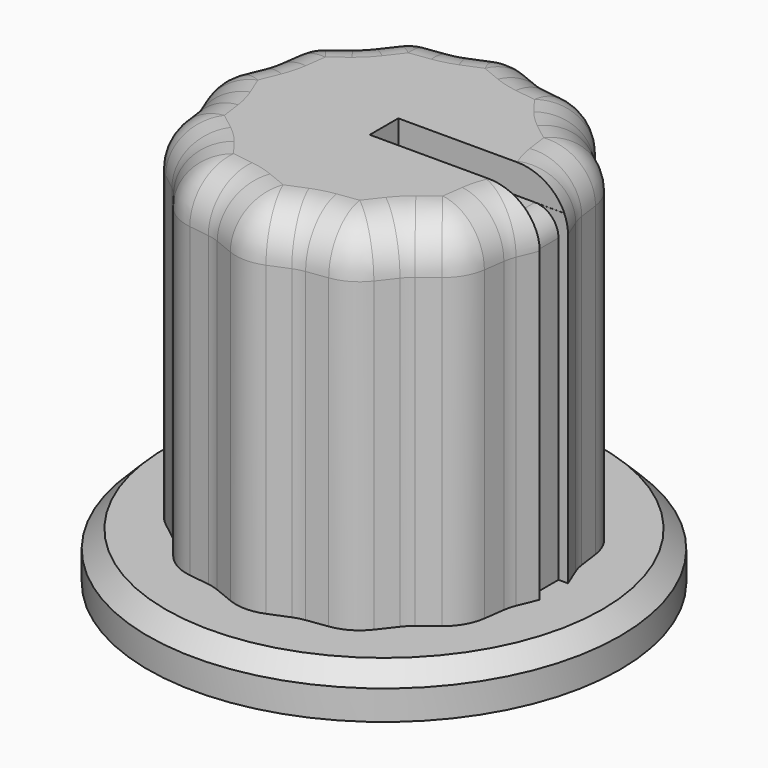
from build123d import *

# Parameters (mm, degrees)
PAD_DEPTH       = 15
SKETCH001_R     = 10
PAD001_DEPTH    = 2
FILLET_R        = 2
POCKET_DEPTH    = 1.25
POCKET001_DEPTH = 1
FILLET001_R     = 1
CHAMFER_SIZE    = 0.75


with BuildPart() as part:
    # Sketch → Pad (new body)
    with BuildSketch(Plane.XY):
        Polygon((7.5, 0), (6.761481, 1.811733), (6.495191, 3.75), (4.949747, 4.949747), (3.75, 6.495191), (1.811733, 6.761481), (0, 7.5), (-1.811733, 6.761481), (-3.75, 6.495191), (-4.949747, 4.949747), (-6.495191, 3.75), (-6.761481, 1.811733), (-7.5, 0), (-6.761481, -1.811733), (-6.495191, -3.75), (-4.949747, -4.949747), (-3.75, -6.495191), (-1.811733, -6.761481), (0, -7.5), (1.811733, -6.761481), (3.75, -6.495191), (4.949747, -4.949747), (6.495191, -3.75), (6.761481, -1.811733), align=None)
    extrude(amount=PAD_DEPTH)

    # Sketch001 (on Face25 of Pad) → Pad001 (join)
    with BuildSketch(Plane(origin=(0, 0, 0), x_dir=(1, 0, 0), z_dir=(0, 0, -1))):
        Circle(SKETCH001_R)
    extrude(amount=PAD001_DEPTH)

    # Fillet
    fillet_edges = [part.edges().sort_by_distance(p)[0] for p in [
        (7.13074, 0.905867, 15),
        (6.628336, 2.780867, 15),
        (5.722469, 4.349874, 15),
        (4.349874, 5.722469, 15),
        (2.780867, 6.628336, 15),
        (0.905867, 7.13074, 15),
        (-0.905867, 7.13074, 15),
        (-2.780867, 6.628336, 15),
        (-4.349874, 5.722469, 15),
        (-5.722469, 4.349874, 15),
        (-6.628336, 2.780867, 15),
        (-7.13074, 0.905867, 15),
        (-7.13074, -0.905867, 15),
        (-6.628336, -2.780867, 15),
        (-5.722469, -4.349874, 15),
        (-4.349874, -5.722469, 15),
        (-2.780867, -6.628336, 15),
        (-0.905867, -7.13074, 15),
        (0.905867, -7.13074, 15),
        (2.780867, -6.628336, 15),
        (4.349874, -5.722469, 15),
        (5.722469, -4.349874, 15),
        (6.628336, -2.780867, 15),
        (7.13074, -0.905867, 15),
        (-3.75, -6.495191, 7.5),
        (-1.811733, -6.761481, 7.5),
        (0, -7.5, 7.5),
        (1.811733, -6.761481, 7.5),
        (3.75, -6.495191, 7.5),
        (4.949747, -4.949747, 7.5),
        (6.495191, -3.75, 7.5),
        (6.761481, -1.811733, 7.5),
        (7.5, 0, 7.5),
        (6.761481, 1.811733, 7.5),
        (6.495191, 3.75, 7.5),
        (4.949747, 4.949747, 7.5),
        (3.75, 6.495191, 7.5),
        (1.811733, 6.761481, 7.5),
        (0, 7.5, 7.5),
        (-1.811733, 6.761481, 7.5),
        (-3.75, 6.495191, 7.5),
        (-4.949747, 4.949747, 7.5),
        (-6.495191, 3.75, 7.5),
        (-6.761481, 1.811733, 7.5),
        (-7.5, 0, 7.5),
        (-6.761481, -1.811733, 7.5),
        (-6.495191, -3.75, 7.5),
        (-4.949747, -4.949747, 7.5),
    ]]
    fillet(fillet_edges, radius=FILLET_R)

    # Sketch002 (on Face54 of Fillet) → Pocket (cut)
    with BuildSketch(Plane.XY.offset(15)):
        with BuildLine():
            Line((7.192259, 0.754949), (0, 0.754949))
            Line((0, 0.754949), (0, -0.754949))
            Line((0, -0.754949), (7.192259, -0.754949))
            ThreePointArc((7.192259, -0.754949), (7.340219, 0), (7.192259, 0.754949))
        make_face()
    extrude(amount=-POCKET_DEPTH, mode=Mode.SUBTRACT)

    # Sketch003 (on DatumPlane) → Pocket001 (cut)
    with BuildSketch(Plane(origin=(7.790651, 0, 6.5), x_dir=(0, 1, 0), z_dir=(1, 0, 0))):
        Polygon((-0.75, 6.5), (-0.75, -6.5), (0.75, -6.5), (0.75, 6.5), (0.75, 7.25), (-0.75, 7.25), align=None)
    extrude(amount=-POCKET001_DEPTH, mode=Mode.SUBTRACT)

    # Fillet001
    fillet001_edges = [part.edges().sort_by_distance(p)[0] for p in [
        (6.790651, 0, 13.75),
    ]]
    fillet(fillet001_edges, radius=FILLET001_R)

    # Chamfer
    chamfer_edges = [part.edges().sort_by_distance(p)[0] for p in [
        (-10, 0, 0),
    ]]
    chamfer(chamfer_edges, length=CHAMFER_SIZE)


solid = part.part
